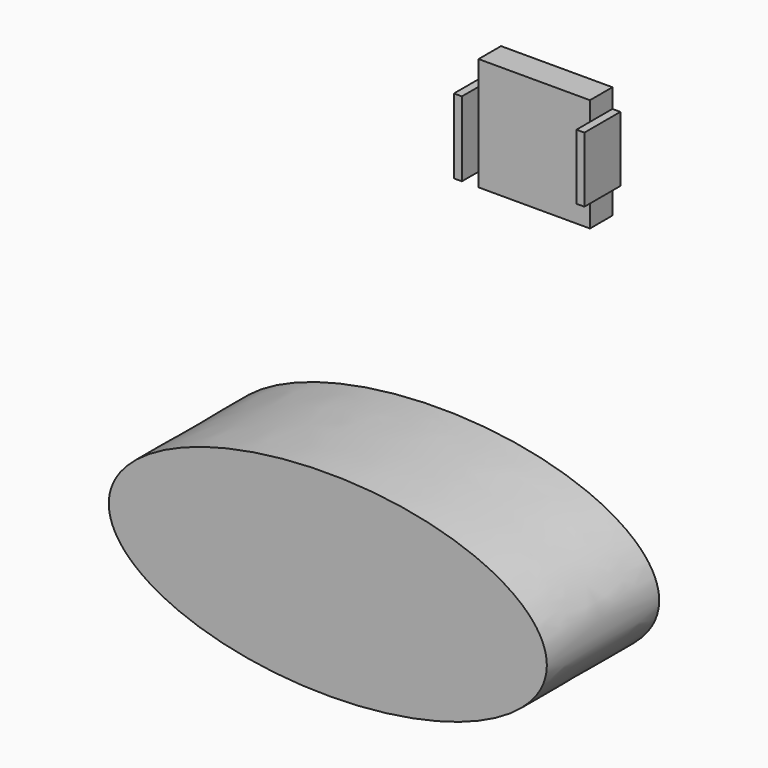
from build123d import *

# Parameters (mm, degrees)
F0_W     = 19.8291372508
F0_H     = 20.1124101877
F1_DEPTH = 5
F2_W     = 1.41636841
F2_H     = 11.6142146289
F3_DEPTH = 8
F2_W_2   = 1.4163665473
F2_H_2   = 13.3138522506
F5_DEPTH = 25
F7_DEPTH = 1


with BuildPart() as f1:
    # F0 (on Front) → F1 (new body)
    with BuildSketch(Plane.XZ):
        with Locations((-33.7095344439, 48.0148382485)):
            Rectangle(F0_W, F0_H)
    extrude(amount=F1_DEPTH)

    # F2 (on Front) → F3 (join)
    with BuildSketch(Plane.XZ):
        with Locations((-23.0867816135, 48.8646607846)):
            Rectangle(F2_W, F2_H)
    extrude(amount=F3_DEPTH)


with BuildPart() as f3:
    # F2 (on Front) → F3, piece 2 (new body)
    with BuildSketch(Plane.XZ):
        with Locations((-44.8988322169, 46.5984717011)):
            Rectangle(F2_W_2, F2_H_2)
    extrude(amount=F3_DEPTH)


with BuildPart() as f5:
    # F4 (on Front) → F5 (new body)
    with BuildSketch(Plane.XZ):
        with BuildLine():
            add(Edge.make_bspline(
                [(-15.4715133831, -19.6488220245), (-15.4715133831, 10.5513044833), (-73.9538357593, -4.5487587706), (-132.4361581355, -19.6488220245), (-73.9538357593, -34.7488852783), (-15.4715133831, -49.8489485322), (-15.4715133831, -19.6488220245)],
                knots=[0, 0, 0, 2.0943951024, 2.0943951024, 4.1887902048, 4.1887902048, 6.2831853072, 6.2831853072, 6.2831853072], degree=2, weights=[1, 0.5, 1, 0.5, 1, 0.5, 1]))
        make_face()
    extrude(amount=F5_DEPTH)

    # F6 (on face) → F7 (join)
    with BuildSketch(Plane.XZ.offset(25)):
        with BuildLine():
            add(Edge.make_bspline(
                [(-15.4715133831, -19.6488220245), (-15.4715133831, 10.5513044833), (-73.9538357593, -4.5487587706), (-132.4361581355, -19.6488220245), (-73.9538357593, -34.7488852783), (-15.4715133831, -49.8489485322), (-15.4715133831, -19.6488220245)],
                knots=[0, 0, 0, 2.0943951024, 2.0943951024, 4.1887902048, 4.1887902048, 6.2831853072, 6.2831853072, 6.2831853072], degree=2, weights=[1, 0.5, 1, 0.5, 1, 0.5, 1]))
        make_face()
    extrude(amount=-F7_DEPTH)


solid = Compound([f1.part, f3.part, f5.part])
